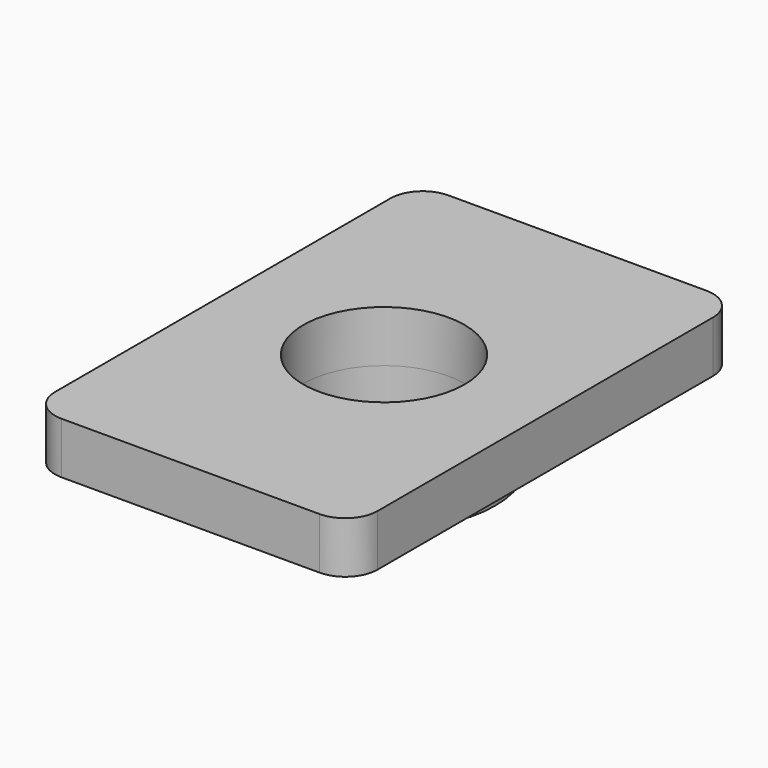
from build123d import *

# Parameters (mm, degrees)
F0_R     = 2.5
F1_DEPTH = 1.6
F2_R     = 3.45
F2_R_2   = 2.5
F3_DEPTH = 1.4


with BuildPart() as f1:
    # F0 (on Top) → F1 (new body)
    with BuildSketch(Plane.XY):
        with BuildLine():
            Line((-4, -7.5), (4, -7.5))
            ThreePointArc((4, -7.5), (4.707107, -7.207107), (5, -6.5))
            Line((5, -6.5), (5, 6.5))
            ThreePointArc((5, 6.5), (4.707107, 7.207107), (4, 7.5))
            Line((4, 7.5), (-4, 7.5))
            ThreePointArc((-4, 7.5), (-4.707107, 7.207107), (-5, 6.5))
            Line((-5, 6.5), (-5, -6.5))
            ThreePointArc((-5, -6.5), (-4.707107, -7.207107), (-4, -7.5))
        make_face()
        Circle(F0_R, mode=Mode.SUBTRACT)
    extrude(amount=F1_DEPTH)

    # F2 (on Top) → F3 (join)
    with BuildSketch(Plane.XY):
        Circle(F2_R)
        Circle(F2_R_2, mode=Mode.SUBTRACT)
    extrude(amount=-F3_DEPTH)


solid = f1.part
